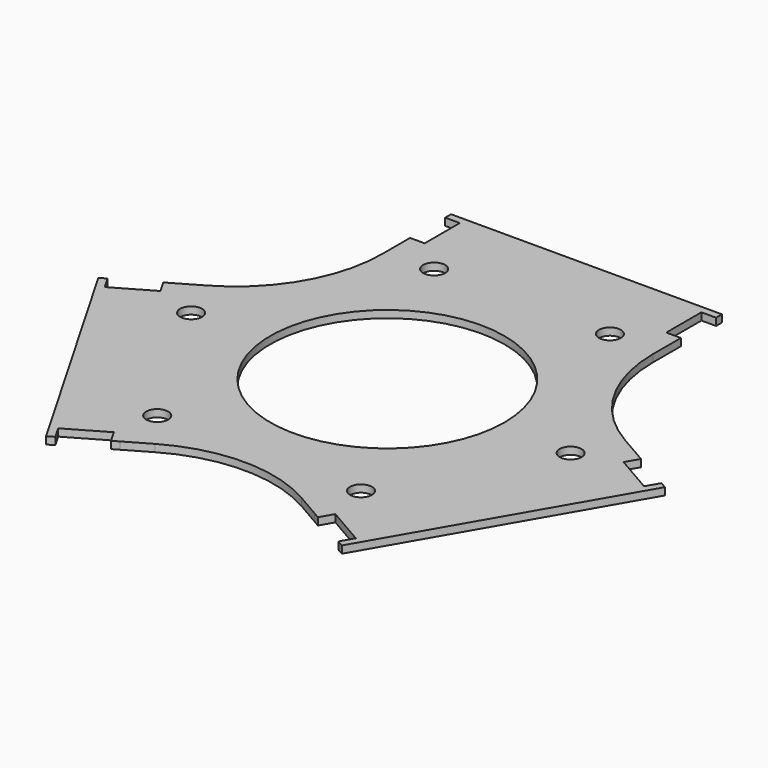
from build123d import *

# Parameters (mm, degrees)
F0_R     = 1.5
F0_R_2   = 16
F1_DEPTH = 1


with BuildPart() as f1:
    # F0 (on Top) → F1 (new body)
    with BuildSketch(Plane.XY):
        with BuildLine():
            Line((20.328838, -30.789419), (19.328838, -32.52147))
            Line((19.328838, -32.52147), (20.194864, -33.02147))
            Line((20.194864, -33.02147), (38.694864, -0.97853))
            Line((38.694864, -0.97853), (37.828838, -0.47853))
            Line((37.828838, -0.47853), (36.828838, -2.210581))
            Line((36.828838, -2.210581), (34.230762, -0.710581))
            Line((34.230762, -0.710581), (31.632686, 0.789419))
            Line((31.632686, 0.789419), (32.632686, 2.52147))
            Line((32.632686, 2.52147), (31.76666, 3.02147))
            Line((31.76666, 3.02147), (28.5, 4.907477))
            ThreePointArc((28.5, 4.907477), (21.179492, 12.227985), (18.5, 22.227985))
            Line((18.5, 22.227985), (18.5, 26))
            Line((18.5, 26), (18.5, 27))
            Line((18.5, 27), (16.5, 27))
            Line((16.5, 27), (16.5, 30))
            Line((16.5, 30), (16.5, 33))
            Line((16.5, 33), (18.5, 33))
            Line((18.5, 33), (18.5, 34))
            Line((18.5, 34), (-18.5, 34))
            Line((-18.5, 34), (-18.5, 33))
            Line((-18.5, 33), (-16.5, 33))
            Line((-16.5, 33), (-16.5, 30))
            Line((-16.5, 30), (-16.5, 27))
            Line((-16.5, 27), (-18.5, 27))
            Line((-18.5, 27), (-18.5, 26))
            Line((-18.5, 26), (-18.5, 22.227985))
            ThreePointArc((-18.5, 22.227985), (-21.179492, 12.227985), (-28.5, 4.907477))
            Line((-28.5, 4.907477), (-31.76666, 3.02147))
            Line((-31.76666, 3.02147), (-32.632686, 2.52147))
            Line((-32.632686, 2.52147), (-31.632686, 0.789419))
            Line((-31.632686, 0.789419), (-34.230762, -0.710581))
            Line((-34.230762, -0.710581), (-36.828838, -2.210581))
            Line((-36.828838, -2.210581), (-37.828838, -0.47853))
            Line((-37.828838, -0.47853), (-38.694864, -0.97853))
            Line((-38.694864, -0.97853), (-20.194864, -33.02147))
            Line((-20.194864, -33.02147), (-19.328838, -32.52147))
            Line((-19.328838, -32.52147), (-20.328838, -30.789419))
            Line((-20.328838, -30.789419), (-17.730762, -29.289419))
            Line((-17.730762, -29.289419), (-15.132686, -27.789419))
            Line((-15.132686, -27.789419), (-14.132686, -29.52147))
            Line((-14.132686, -29.52147), (-13.26666, -29.02147))
            Line((-13.26666, -29.02147), (-10, -27.135463))
            ThreePointArc((-10, -27.135463), (0, -24.455971), (10, -27.135463))
            Line((10, -27.135463), (13.26666, -29.02147))
            Line((13.26666, -29.02147), (14.132686, -29.52147))
            Line((14.132686, -29.52147), (15.132686, -27.789419))
            Line((15.132686, -27.789419), (17.730762, -29.289419))
            Line((17.730762, -29.289419), (20.328838, -30.789419))
        make_face()
        with Locations((-13.918584, -21.892305)):
            Circle(F0_R, mode=Mode.SUBTRACT)
        with Locations((-25.918584, -1.107695)):
            Circle(F0_R, mode=Mode.SUBTRACT)
        Circle(F0_R_2, mode=Mode.SUBTRACT)
        with Locations((13.918584, -21.892305)):
            Circle(F0_R, mode=Mode.SUBTRACT)
        with Locations((25.918584, -1.107695)):
            Circle(F0_R, mode=Mode.SUBTRACT)
        with Locations((-12, 23)):
            Circle(F0_R, mode=Mode.SUBTRACT)
        with Locations((12, 23)):
            Circle(F0_R, mode=Mode.SUBTRACT)
    extrude(amount=F1_DEPTH)


solid = f1.part
